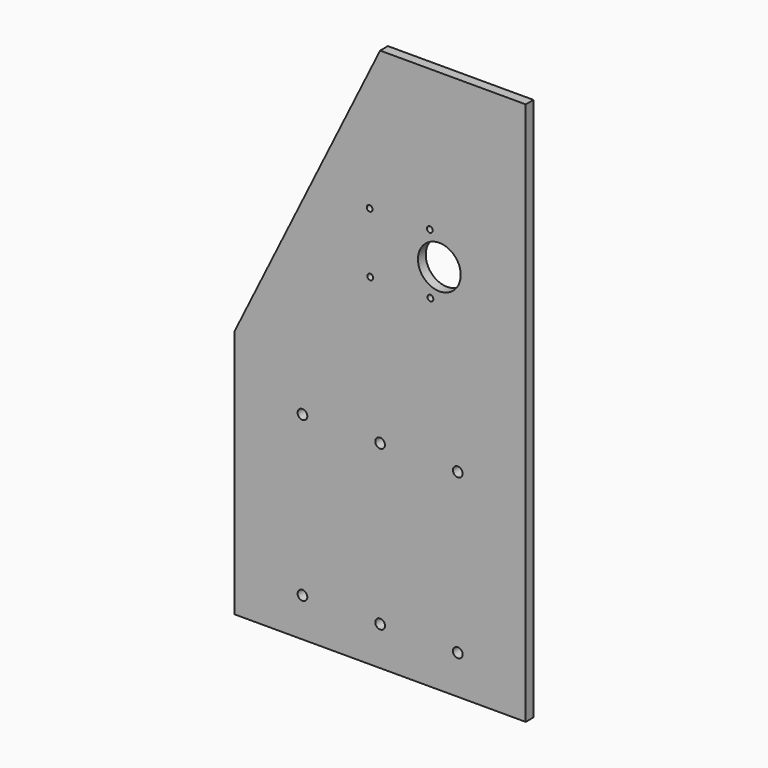
from build123d import *

# Parameters (mm, degrees)
F0_R     = 2.5
F0_R_2   = 1.5
F0_R_3   = 11
F1_DEPTH = 5


with BuildPart() as f1:
    # F0 (on Front) → F1 (new body)
    with BuildSketch(Plane.XZ):
        Polygon((-75, -140), (75, -140), (75, 140), (0, 140), (-75, -11.7), align=None)
        with Locations((-40, -120)):
            Circle(F0_R, mode=Mode.SUBTRACT)
        with Locations((-40, -38)):
            Circle(F0_R, mode=Mode.SUBTRACT)
        with Locations((0, -120)):
            Circle(F0_R, mode=Mode.SUBTRACT)
        with Locations((40, -120)):
            Circle(F0_R, mode=Mode.SUBTRACT)
        with Locations((0, -38)):
            Circle(F0_R, mode=Mode.SUBTRACT)
        with Locations((40, -38)):
            Circle(F0_R, mode=Mode.SUBTRACT)
        with Locations((-5.086579, 35.691086)):
            Circle(F0_R_2, mode=Mode.SUBTRACT)
        with Locations((-5.384895, 66.691086)):
            Circle(F0_R_2, mode=Mode.SUBTRACT)
        with Locations((25.913421, 36.207732)):
            Circle(F0_R_2, mode=Mode.SUBTRACT)
        with Locations((30.5, 51.75)):
            Circle(F0_R_3, mode=Mode.SUBTRACT)
        with Locations((25.615105, 67.207732)):
            Circle(F0_R_2, mode=Mode.SUBTRACT)
    extrude(amount=F1_DEPTH)


solid = f1.part
